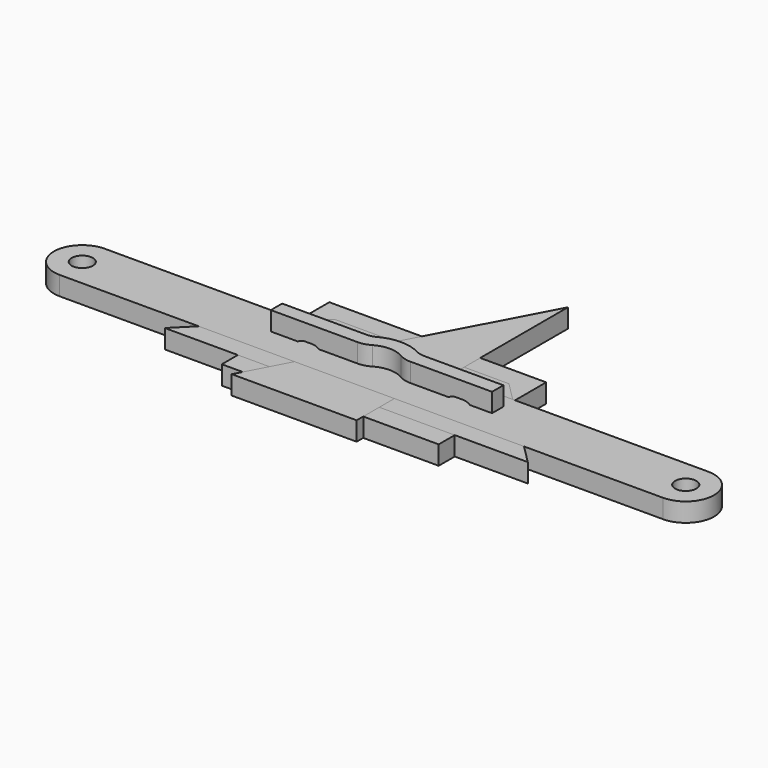
from build123d import *

# Parameters (mm, degrees)
F0_W      = 146.05
F0_H      = 90.4875
F0_R      = 7.9375
F1_DEPTH  = 6.35
F2_R      = 7.14375
F3_DEPTH  = 6.35
F4_R      = 7.14375
F5_DEPTH  = 6.35
F6_R      = 7.14375
F7_DEPTH  = 6.35
F9_DEPTH  = 19.05
F11_DEPTH = 12.7


with BuildPart() as f1:
    # F0 (on Top) → F1 (new body, symmetric)
    with BuildSketch(Plane.XY):
        Rectangle(F0_W, F0_H)
        with Locations((-44.45, 0)):
            Circle(F0_R, mode=Mode.SUBTRACT)
        with Locations((44.45, 0)):
            Circle(F0_R, mode=Mode.SUBTRACT)
    extrude(amount=F1_DEPTH, both=True)


with BuildPart() as f3:
    # F2 (on Top) → F3 (new body, symmetric)
    with BuildSketch(Plane.XY):
        Polygon((-58.7375, 31.75), (-122.2375, -31.75), (122.2375, -31.75), (58.7375, 31.75), align=None)
        with Locations((0, -6.35)):
            Circle(F2_R, mode=Mode.SUBTRACT)
    extrude(amount=F3_DEPTH, both=True)


with BuildPart() as f5:
    # F4 (on Top) → F5 (new body, symmetric)
    with BuildSketch(Plane.XY):
        Polygon((28.575, 119.0625), (-61.9125, -50.8), (22.225, -50.8), (22.225, 28.575), (28.575, 28.575), align=None)
        Circle(F4_R, mode=Mode.SUBTRACT)
    extrude(amount=F5_DEPTH, both=True)


with BuildPart() as f7:
    # F6 (on Top) → F7 (new body, symmetric)
    with BuildSketch(Plane.XY):
        with BuildLine():
            Line((203.2, 19.05), (-203.2, 19.05))
            ThreePointArc((-203.2, 19.05), (-222.25, 0), (-203.2, -19.05))
            Line((-203.2, -19.05), (203.2, -19.05))
            ThreePointArc((203.2, -19.05), (222.25, 0), (203.2, 19.05))
        make_face()
        with Locations((-203.2, 0)):
            Circle(F6_R, mode=Mode.SUBTRACT)
        with Locations((203.2, 0)):
            Circle(F6_R, mode=Mode.SUBTRACT)
    extrude(amount=F7_DEPTH, both=True)


with BuildPart() as f9:
    # F8 (on Top) → F9 (new body, symmetric)
    with BuildSketch(Plane.XY):
        with BuildLine():
            Line((-19.3512225584, 9.5140125274), (-76.2, 9.5140125274))
            Line((-76.2, 9.5140125274), (-76.2, -0.0109874726))
            Line((-76.2, -0.0109874726), (-17.6999632028, -0.0109874726))
            ThreePointArc((-17.6999632028, -0.0109874726), (-13.5309106507, 0.5462246382), (-9.6545253834, 2.1787447078))
            ThreePointArc((-9.6545253834, 2.1787447078), (0, 4.8064233243), (9.6545253834, 2.1787447078))
            ThreePointArc((9.6545253834, 2.1787447078), (13.5309106507, 0.5462246382), (17.6999632028, -0.0109874726))
            Line((17.6999632028, -0.0109874726), (72.7599636711, -0.0109874726))
            Line((72.7599636711, -0.0109874726), (72.7599636711, 9.5140125274))
            Line((72.7599636711, 9.5140125274), (19.3512225584, 9.5140125274))
            ThreePointArc((19.3512225584, 9.5140125274), (16.2832460987, 9.8901527244), (13.3970002327, 10.9962927726))
            ThreePointArc((13.3970002327, 10.9962927726), (0, 14.3314233243), (-13.3970002327, 10.9962927726))
            ThreePointArc((-13.3970002327, 10.9962927726), (-16.2832460987, 9.8901527244), (-19.3512225584, 9.5140125274))
        make_face()
    extrude(amount=F9_DEPTH, both=True)

    # F10 (on Front) → F11 (cut, symmetric)
    with BuildSketch(Plane.XZ):
        with BuildLine():
            Line((-48.41875, 7.9375), (-53.18125, 7.9375))
            ThreePointArc((-53.18125, 7.9375), (-61.11875, 0), (-53.18125, -7.9375))
            Line((-53.18125, -7.9375), (-48.41875, -7.9375))
            ThreePointArc((-48.41875, -7.9375), (-40.48125, 0), (-48.41875, 7.9375))
        make_face()
        with BuildLine():
            ThreePointArc((48.41875, 7.9375), (40.48125, 0), (48.41875, -7.9375))
            Line((48.41875, -7.9375), (53.18125, -7.9375))
            ThreePointArc((53.18125, -7.9375), (61.11875, 0), (53.18125, 7.9375))
            Line((53.18125, 7.9375), (48.41875, 7.9375))
        make_face()
    extrude(amount=F11_DEPTH, both=True, mode=Mode.SUBTRACT)


solid = Compound([f1.part, f3.part, f5.part, f7.part, f9.part])
